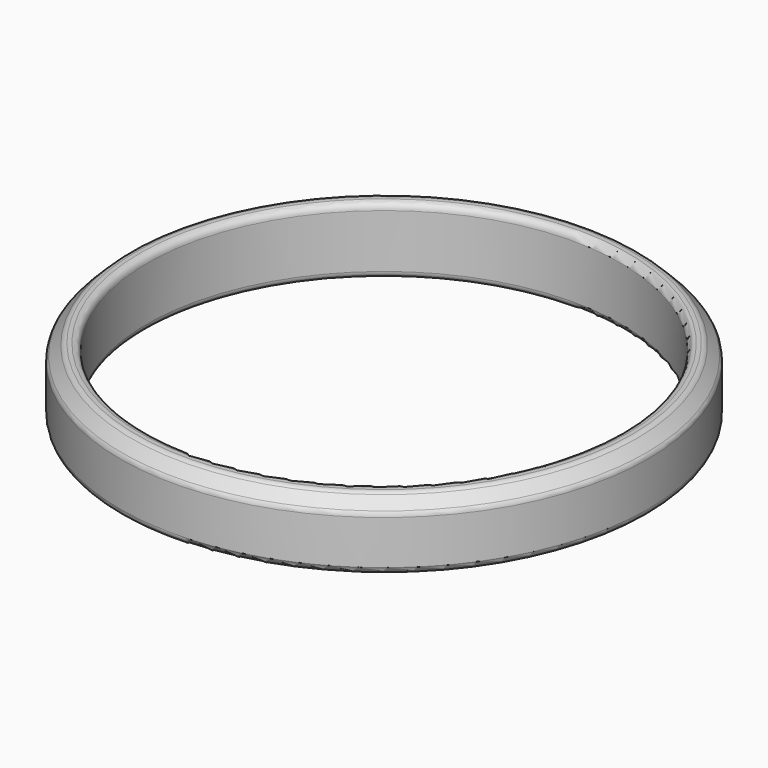
from build123d import *

# Parameters (mm, degrees)
F0_R     = 19.7
F1_DEPTH = 5
F2_T     = -2
F3_SIZE  = 1
F4_R     = 0.5


with BuildPart() as f1:
    # F0 (on Top) → F1 (new body)
    with BuildSketch(Plane.XY):
        Circle(F0_R)
    extrude(amount=F1_DEPTH)

    # F2
    f2_openings = [f1.faces().sort_by_distance(p)[0] for p in [
        (0, 0, 5),
        (0, 0, 0),
    ]]
    offset(amount=F2_T, openings=f2_openings)

    # F3
    f3_edges = [f1.edges().sort_by_distance(p)[0] for p in [
        (-19.7, 0, 5),
    ]]
    chamfer(f3_edges, length=F3_SIZE)

    # F4
    f4_edges = [f1.edges().sort_by_distance(p)[0] for p in [
        (19.2, 0, 4.5),
        (-19.7, 0, 4),
        (-18.7, 0, 5),
        (-19.7, 0, 0),
        (-17.7, 0, 5),
        (-17.7, 0, 0),
    ]]
    fillet(f4_edges, radius=F4_R)


solid = f1.part
